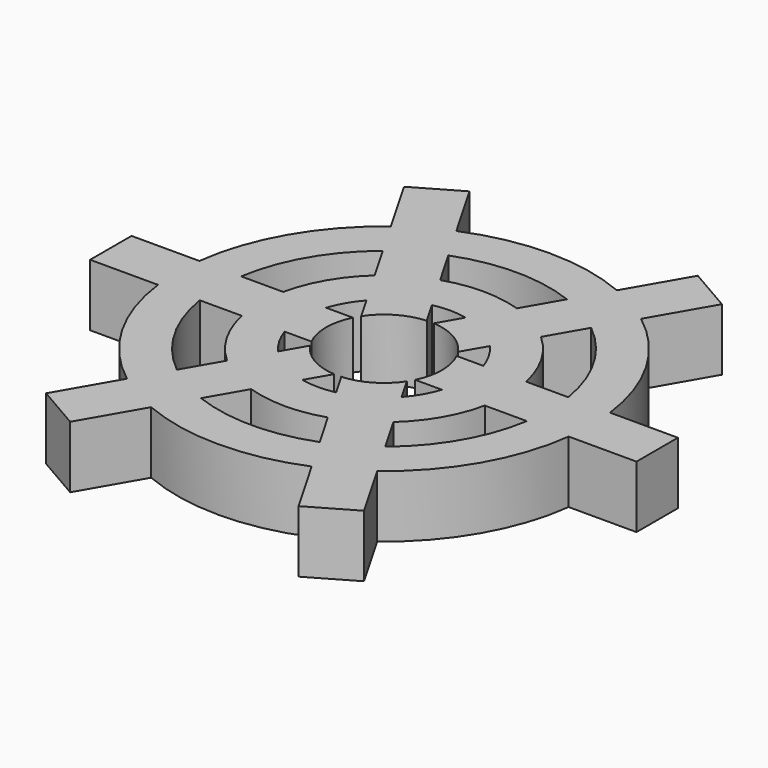
from build123d import *

# Parameters (mm, degrees)
F1_DEPTH = 1.905


with BuildPart() as f1:
    # F0 (on Top) → F1 (new body)
    with BuildSketch(Plane.XY):
        with BuildLine():
            Line((-4.878408, 6.86215), (-3.837505, 5.059254))
            ThreePointArc((-3.837505, 5.059254), (-5.499261, 3.175), (-6.300195, 0.79375))
            Line((-6.300195, 0.79375), (-8.382, 0.79375))
            Line((-8.382, 0.79375), (-8.382, -0.79375))
            Line((-8.382, -0.79375), (-6.300195, -0.79375))
            ThreePointArc((-6.300195, -0.79375), (-5.499261, -3.175), (-3.837505, -5.059254))
            Line((-3.837505, -5.059254), (-4.878408, -6.86215))
            Line((-4.878408, -6.86215), (-3.503592, -7.6559))
            Line((-3.503592, -7.6559), (-2.46269, -5.853004))
            ThreePointArc((-2.46269, -5.853004), (0, -6.35), (2.46269, -5.853004))
            Line((2.46269, -5.853004), (3.503592, -7.6559))
            Line((3.503592, -7.6559), (4.878408, -6.86215))
            Line((4.878408, -6.86215), (3.837505, -5.059254))
            ThreePointArc((3.837505, -5.059254), (5.499261, -3.175), (6.300195, -0.79375))
            Line((6.300195, -0.79375), (8.382, -0.79375))
            Line((8.382, -0.79375), (8.382, 0.79375))
            Line((8.382, 0.79375), (6.300195, 0.79375))
            ThreePointArc((6.300195, 0.79375), (5.499261, 3.175), (3.837505, 5.059254))
            Line((3.837505, 5.059254), (4.878408, 6.86215))
            Line((4.878408, 6.86215), (3.503592, 7.6559))
            Line((3.503592, 7.6559), (2.46269, 5.853004))
            ThreePointArc((2.46269, 5.853004), (0, 6.35), (-2.46269, 5.853004))
            Line((-2.46269, 5.853004), (-3.503592, 7.6559))
            Line((-3.503592, 7.6559), (-4.878408, 6.86215))
        make_face()
        with BuildLine():
            ThreePointArc((-3.19621, -3.948498), (-4.399409, -2.54), (-5.017605, -0.79375))
            Line((-5.017605, -0.79375), (-3.726401, -0.79375))
            ThreePointArc((-3.726401, -0.79375), (-3.299557, -1.905), (-2.550608, -2.830283))
            Line((-2.550608, -2.830283), (-3.19621, -3.948498))
        make_face(mode=Mode.SUBTRACT)
        with BuildLine():
            ThreePointArc((1.821395, -4.742248), (0, -5.08), (-1.821395, -4.742248))
            Line((-1.821395, -4.742248), (-1.175793, -3.624033))
            ThreePointArc((-1.175793, -3.624033), (0, -3.81), (1.175793, -3.624033))
            Line((1.175793, -3.624033), (1.821395, -4.742248))
        make_face(mode=Mode.SUBTRACT)
        with BuildLine():
            Line((3.726401, -0.79375), (5.017605, -0.79375))
            ThreePointArc((5.017605, -0.79375), (4.399409, -2.54), (3.19621, -3.948498))
            Line((3.19621, -3.948498), (2.550608, -2.830283))
            ThreePointArc((2.550608, -2.830283), (3.299557, -1.905), (3.726401, -0.79375))
        make_face(mode=Mode.SUBTRACT)
        with BuildLine():
            ThreePointArc((-5.017605, 0.79375), (-4.399409, 2.54), (-3.19621, 3.948498))
            Line((-3.19621, 3.948498), (-2.550608, 2.830283))
            ThreePointArc((-2.550608, 2.830283), (-3.299557, 1.905), (-3.726401, 0.79375))
            Line((-3.726401, 0.79375), (-5.017605, 0.79375))
        make_face(mode=Mode.SUBTRACT)
        with BuildLine():
            ThreePointArc((-2.412791, 0.79375), (-2.199705, 1.27), (-1.893803, 1.692663))
            Line((-1.893803, 1.692663), (-1.482902, 0.980962))
            ThreePointArc((-1.482902, 0.980962), (-0.889, 1.539793), (-0.108087, 1.774712))
            Line((-0.108087, 1.774712), (-0.518988, 2.486413))
            ThreePointArc((-0.518988, 2.486413), (0, 2.54), (0.518988, 2.486413))
            Line((0.518988, 2.486413), (0.108087, 1.774712))
            ThreePointArc((0.108087, 1.774712), (0.889, 1.539793), (1.482902, 0.980962))
            Line((1.482902, 0.980962), (1.893803, 1.692663))
            ThreePointArc((1.893803, 1.692663), (2.199705, 1.27), (2.412791, 0.79375))
            Line((2.412791, 0.79375), (1.590989, 0.79375))
            ThreePointArc((1.590989, 0.79375), (1.778, 0), (1.590989, -0.79375))
            Line((1.590989, -0.79375), (2.412791, -0.79375))
            ThreePointArc((2.412791, -0.79375), (2.199705, -1.27), (1.893803, -1.692663))
            Line((1.893803, -1.692663), (1.482902, -0.980962))
            ThreePointArc((1.482902, -0.980962), (0.889, -1.539793), (0.108087, -1.774712))
            Line((0.108087, -1.774712), (0.518988, -2.486413))
            ThreePointArc((0.518988, -2.486413), (0, -2.54), (-0.518988, -2.486413))
            Line((-0.518988, -2.486413), (-0.108087, -1.774712))
            ThreePointArc((-0.108087, -1.774712), (-0.889, -1.539793), (-1.482902, -0.980962))
            Line((-1.482902, -0.980962), (-1.893803, -1.692663))
            ThreePointArc((-1.893803, -1.692663), (-2.199705, -1.27), (-2.412791, -0.79375))
            Line((-2.412791, -0.79375), (-1.590989, -0.79375))
            ThreePointArc((-1.590989, -0.79375), (-1.778, 0), (-1.590989, 0.79375))
            Line((-1.590989, 0.79375), (-2.412791, 0.79375))
        make_face(mode=Mode.SUBTRACT)
        with BuildLine():
            ThreePointArc((3.19621, 3.948498), (4.399409, 2.54), (5.017605, 0.79375))
            Line((5.017605, 0.79375), (3.726401, 0.79375))
            ThreePointArc((3.726401, 0.79375), (3.299557, 1.905), (2.550608, 2.830283))
            Line((2.550608, 2.830283), (3.19621, 3.948498))
        make_face(mode=Mode.SUBTRACT)
        with BuildLine():
            Line((-1.175793, 3.624033), (-1.821395, 4.742248))
            ThreePointArc((-1.821395, 4.742248), (0, 5.08), (1.821395, 4.742248))
            Line((1.821395, 4.742248), (1.175793, 3.624033))
            ThreePointArc((1.175793, 3.624033), (0, 3.81), (-1.175793, 3.624033))
        make_face(mode=Mode.SUBTRACT)
    extrude(amount=F1_DEPTH)


solid = f1.part
